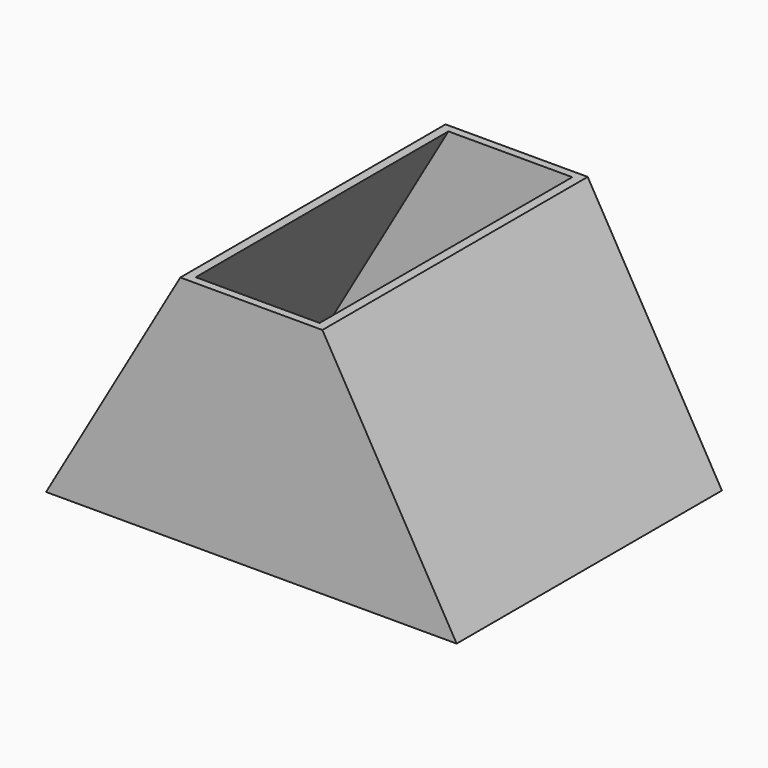
from build123d import *

# Parameters (mm, degrees)
F1_DEPTH = 105
F2_T     = -2.5


with BuildPart() as f1:
    # F0 (on Front) → F1 (new body)
    with BuildSketch(Plane.XZ):
        Polygon((-48.461418, 73.612159), (-90.961418, 0), (39.038582, 0), (-3.461418, 73.612159), align=None)
        Polygon((-48.461418, 73.612159), (-90.961418, 0), (39.038582, 0), (-3.461418, 73.612159), align=None)
    extrude(amount=F1_DEPTH)

    # F2
    f2_openings = [f1.faces().sort_by_distance(p)[0] for p in [
        (-25.961418, -52.5, 73.612159),
    ]]
    offset(amount=F2_T, openings=f2_openings)


solid = f1.part
